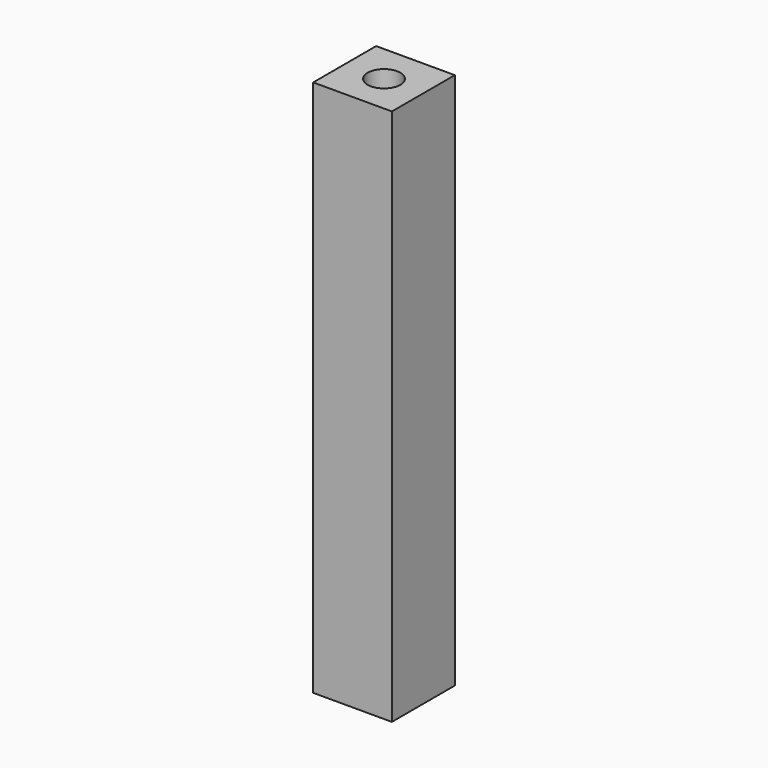
from build123d import *

# Parameters (mm, degrees)
F0_W     = 12
F0_H     = 12
F1_DEPTH = 82
F3_D     = 5
F3_DEPTH = 20
F3_TIP   = 1.5021515476
F5_D     = 5
F5_DEPTH = 20
F5_TIP   = 1.5021515476


with BuildPart() as f1:
    # F0 (on Top) → F1 (new body)
    with BuildSketch(Plane.XY):
        Rectangle(F0_W, F0_H)
    extrude(amount=-F1_DEPTH)

    # F3
    with Locations(Plane.XY):
        with Locations((0, 0)):
            Hole(F3_D / 2, depth=F3_DEPTH)
            with Locations((0, 0, -(F3_DEPTH + F3_TIP / 2))):  # 118° drill point
                Cone(0, F3_D / 2, F3_TIP, mode=Mode.SUBTRACT)

    # F5
    with Locations(Plane(origin=(0, 0, -82), x_dir=(1, 0, 0), z_dir=(0, 0, -1))):
        with Locations((0, 0)):
            Hole(F5_D / 2, depth=F5_DEPTH)
            with Locations((0, 0, -(F5_DEPTH + F5_TIP / 2))):  # 118° drill point
                Cone(0, F5_D / 2, F5_TIP, mode=Mode.SUBTRACT)


solid = f1.part
